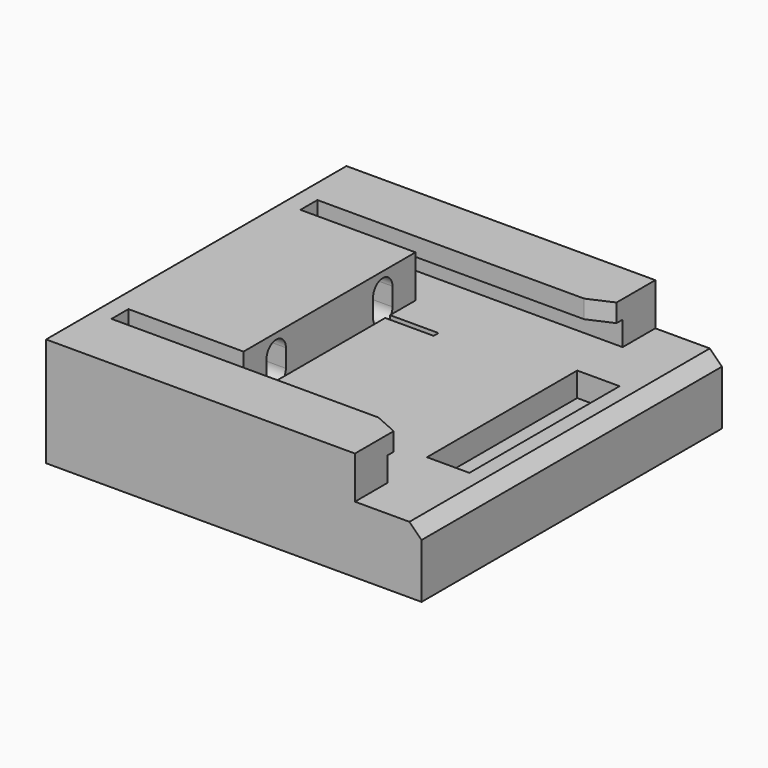
from build123d import *

# Parameters (mm, degrees)
SKETCH072_W             = 62
SKETCH072_H             = 62
PAD012_DEPTH            = 18
POCKET059_DEPTH         = 59
POCKET060_DEPTH         = 7
SKETCH077_R             = 1.5
POCKET062_DEPTH         = 22
POCKET067_DEPTH         = 10
SKETCH076_W             = 31
SKETCH076_H             = 7
SKETCH076_W_2           = 1
SKETCH076_H_2           = 8
POCKET065_DEPTH         = 11
POCKET066_DEPTH         = 62.001
BODY012_PLACEMENT_ANGLE = 90


with BuildPart() as part:
    # Sketch072 → Pad012 (new body)
    with BuildSketch(Plane.XY):
        Rectangle(SKETCH072_W, SKETCH072_H)
    extrude(amount=PAD012_DEPTH)

    # Sketch074 → Pocket059 (cut)
    with BuildSketch(Plane.XZ.offset(31)):
        Polygon((-21.25, 20), (-21.25, 15), (-24.25, 15), (-24.25, 11), (-17.75, 11), (-17.75, 18), (17.75, 18), (17.75, 11), (24.25, 11), (24.25, 15), (21.25, 15), (21.25, 20), align=None)
    extrude(amount=-POCKET059_DEPTH, mode=Mode.SUBTRACT)

    # Sketch075 (on Face5 of Pocket059) → Pocket060 (cut)
    with BuildSketch(Plane.XY.offset(18)):
        Polygon((-19, -11), (-19, 9), (19, 9), (19, -11), (23, -20), (31, -20), (31, -31), (-31, -31), (-31, -20), (-23, -20), align=None)
    extrude(amount=-POCKET060_DEPTH, mode=Mode.SUBTRACT)

    # Sketch077 → Pocket062 (cut)
    with BuildSketch(Plane(origin=(0, 31, 0), x_dir=(-1, 0, 0), z_dir=(0, 1, 0))):
        with Locations((-11, 13.5)):
            Circle(SKETCH077_R)
        with Locations((11, 13.5)):
            Circle(SKETCH077_R)
    extrude(amount=-POCKET062_DEPTH, mode=Mode.SUBTRACT)

    # Sketch081 (on Face35 of Pocket062) → Pocket067 (cut)
    with BuildSketch(Plane.XZ.offset(-9)):
        with BuildLine():
            ThreePointArc((-9, 15), (-11, 17), (-13, 15))
            Line((-13, 15), (-13, 12))
            ThreePointArc((-13, 12), (-11, 10), (-9, 12))
            Line((-9, 15), (-9, 12))
        make_face()
        with BuildLine():
            ThreePointArc((13, 15), (11, 17), (9, 15))
            Line((9, 15), (9, 12))
            ThreePointArc((9, 12), (11, 10), (13, 12))
            Line((13, 15), (13, 12))
        make_face()
    extrude(amount=-POCKET067_DEPTH, mode=Mode.SUBTRACT)

    # Sketch076 (on Face4 of Pocket060) → Pocket065 (cut)
    with BuildSketch(Plane.XY.offset(18)):
        with Locations((0, -23)):
            Rectangle(SKETCH076_W, SKETCH076_H)
        with Locations((-12, 5)):
            Rectangle(SKETCH076_W_2, SKETCH076_H_2)
        with Locations((12, 5)):
            Rectangle(SKETCH076_W_2, SKETCH076_H_2)
    extrude(amount=-POCKET065_DEPTH, mode=Mode.SUBTRACT)

    # Sketch080 (on Face8 of Pocket065) → Pocket066 (cut, through all)
    with BuildSketch(Plane.YZ.offset(31)):
        Polygon((-31, 11), (-31, 9), (-29, 11), align=None)
    extrude(amount=-POCKET066_DEPTH, mode=Mode.SUBTRACT)


with BuildPart() as part_1:
    # Body012 placement: moved
    add(part.part.moved(Location((60, 50, 50))).rotate(Axis((60, 50, 50), (0, 0, 1)), BODY012_PLACEMENT_ANGLE))


solid = part_1.part
